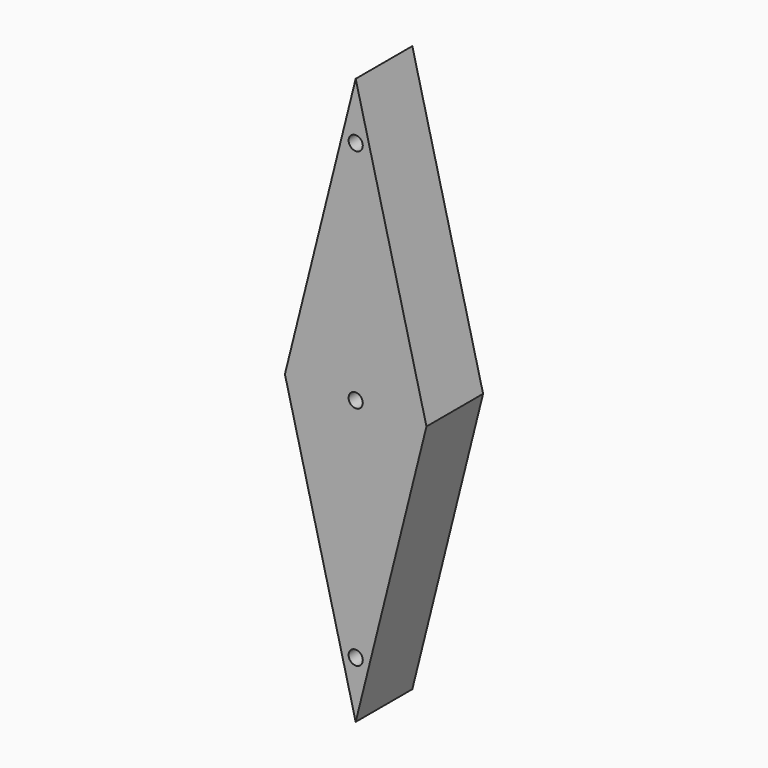
from build123d import *

# Parameters (mm, degrees)
F1_DEPTH = 5
F2_D     = 1
F3_D     = 1


with BuildPart() as f1:
    # F0 (on Front) → F1 (new body)
    with BuildSketch(Plane.XZ):
        Polygon((-5, 20), (0, 20), (0, 40), align=None)
        Polygon((0, 20), (0, 0), (5, 20), align=None)
        Polygon((0, 20), (0, 0), (5, 20), align=None)
        Polygon((0, 40), (0, 20), (5, 20), align=None)
        Polygon((-5, 20), (0, 0), (0, 20), align=None)
        Polygon((0, 40), (0, 20), (5, 20), align=None)
    extrude(amount=F1_DEPTH)

    # F2 (through all)
    with Locations(Plane(origin=(0, 0, 0), x_dir=(1, 0, 0), z_dir=(0, 1, 0))):
        with Locations((0, -20)):
            Hole(F2_D / 2)

    # F3 (through all)
    with Locations(Plane(origin=(0, 0, 0), x_dir=(1, 0, 0), z_dir=(0, 1, 0))):
        with Locations((0, -4), (0, -36)):
            Hole(F3_D / 2)


solid = f1.part
